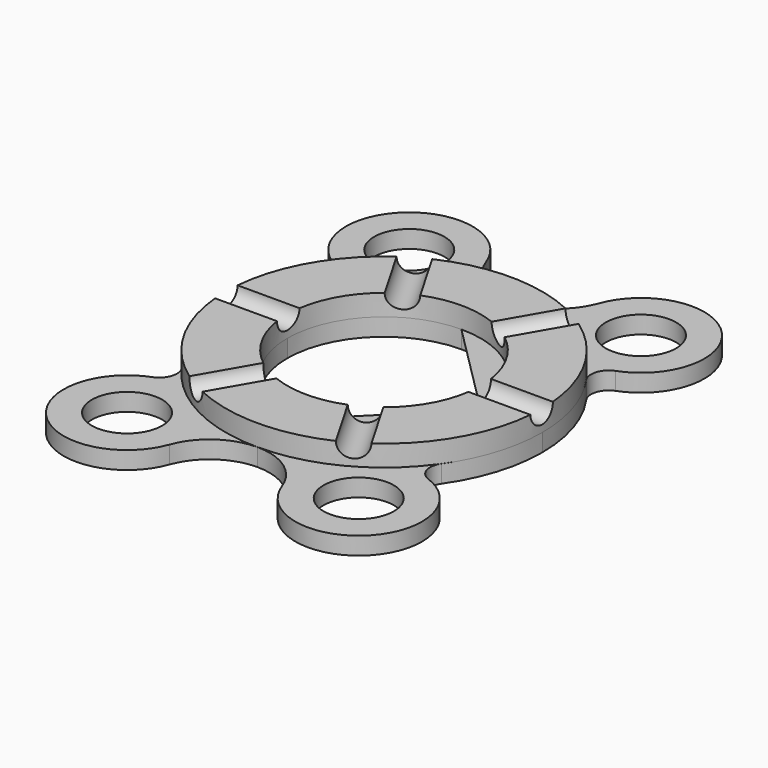
from build123d import *

# Parameters (mm, degrees)
SKETCH_R             = 10
PAD_DEPTH            = 5
SKETCH_MIRRORED_2_R  = 10
PAD_MIRRORED_2_DEPTH = 5
SKETCH001_R          = 45
SKETCH001_R_2        = 27.5
PAD001_DEPTH         = 6
CYLINDER_R           = 4
CYLINDER_DEPTH       = 19.5
POLARPATTERN_COUNT   = 6


with BuildPart() as part:
    # Sketch → Pad (new body)
    with BuildSketch(Plane.XY):
        with BuildLine():
            ThreePointArc((-15.996555, 56.245853), (-9.777001, 48.092799), (0, 45))
            Line((0, 45), (0, 27.5))
            ThreePointArc((0, 27.5), (-19.445436, 19.445436), (-27.5, 0))
            Line((-45, 0), (-27.5, 0))
            ThreePointArc((-36.902112, 25.753333), (-42.927817, 13.49824), (-45, 0))
            ThreePointArc((-36.902112, 25.753333), (-36.227941, 30.099756), (-39.248376, 33.297078))
            ThreePointArc((-15.996555, 56.245853), (-45.578248, 62.964359), (-39.248376, 33.297078))
        make_face()
        with Locations((-32.934085, 50.153226)):
            Circle(SKETCH_R, mode=Mode.SUBTRACT)
    pad = extrude(amount=PAD_DEPTH)

    # Sketch Mirrored 2 → Pad Mirrored 2 (add)
    with BuildSketch(Plane(origin=(0, 0, 0), x_dir=(-1, 0, 0), z_dir=(0, 0, -1))):
        with BuildLine():
            ThreePointArc((-15.996555, 56.245853), (-9.777001, 48.092799), (0, 45))
            Line((0, 45), (0, 27.5))
            ThreePointArc((0, 27.5), (-19.445436, 19.445436), (-27.5, 0))
            Line((-45, 0), (-27.5, 0))
            ThreePointArc((-36.902112, 25.753333), (-42.927817, 13.49824), (-45, 0))
            ThreePointArc((-36.902112, 25.753333), (-36.227941, 30.099756), (-39.248376, 33.297078))
            ThreePointArc((-15.996555, 56.245853), (-45.578248, 62.964359), (-39.248376, 33.297078))
        make_face()
        with Locations((-32.934085, 50.153226)):
            Circle(SKETCH_MIRRORED_2_R, mode=Mode.SUBTRACT)
    pad_mirrored_2 = extrude(amount=-PAD_MIRRORED_2_DEPTH)

    # Mirrored001: Pad, Pad Mirrored 2 across Sketch H_Axis
    add(pad.mirror(Plane.ZX))
    add(pad_mirrored_2.mirror(Plane.ZX))

    # Sketch001 → Pad001 (join)
    with BuildSketch(Plane.XY.offset(5)):
        Circle(SKETCH001_R)
        Circle(SKETCH001_R_2, mode=Mode.SUBTRACT)
    extrude(amount=PAD001_DEPTH)

    # Cylinder → Cylinder (cut)
    with BuildSketch(Plane(origin=(26.5, 0, 11), x_dir=(0, 1, 0), z_dir=(1, 0, 0))):
        Circle(CYLINDER_R)
    cylinder = extrude(amount=CYLINDER_DEPTH, mode=Mode.SUBTRACT)

    # PolarPattern: Cylinder ×6 about axis
    polarpattern_axis = Axis((0, 0, 0), (0, 0, 1))
    for i in range(1, POLARPATTERN_COUNT):
        add(cylinder.rotate(polarpattern_axis, i * 360 / POLARPATTERN_COUNT), mode=Mode.SUBTRACT)


solid = part.part
